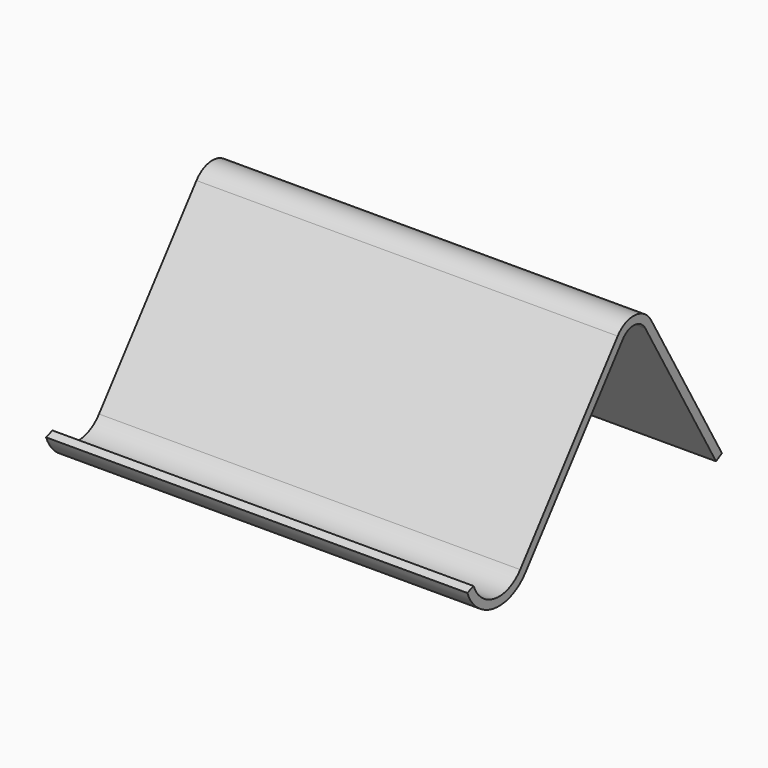
from build123d import *

# Parameters (mm, degrees)
F1_DEPTH = 100


with BuildPart() as f1:
    # F0 (on Right) → F1 (new body)
    with BuildSketch(Plane.YZ):
        with BuildLine():
            Line((-5.472958, 37.051259), (-34.390154, 0))
            ThreePointArc((-34.390154, 0), (-41.9504, -2.979086), (-48.217188, 2.193884))
            Line((-48.217188, 2.193884), (-50.097297, 1.511836))
            ThreePointArc((-50.097297, 1.511836), (-42.263812, -4.954377), (-32.813505, -1.230519))
            Line((-32.813505, -1.230519), (-3.896309, 35.82074))
            ThreePointArc((-3.896309, 35.82074), (-0.46602, 37.3501), (2.720071, 35.361468))
            Line((2.720071, 35.361468), (23.738619, -1.000883))
            Line((23.738619, -1.000883), (25.47016, 0))
            Line((25.47016, 0), (4.451611, 36.362352))
            ThreePointArc((4.451611, 36.362352), (-0.327524, 39.345299), (-5.472958, 37.051259))
        make_face()
    extrude(amount=-F1_DEPTH)


solid = f1.part
